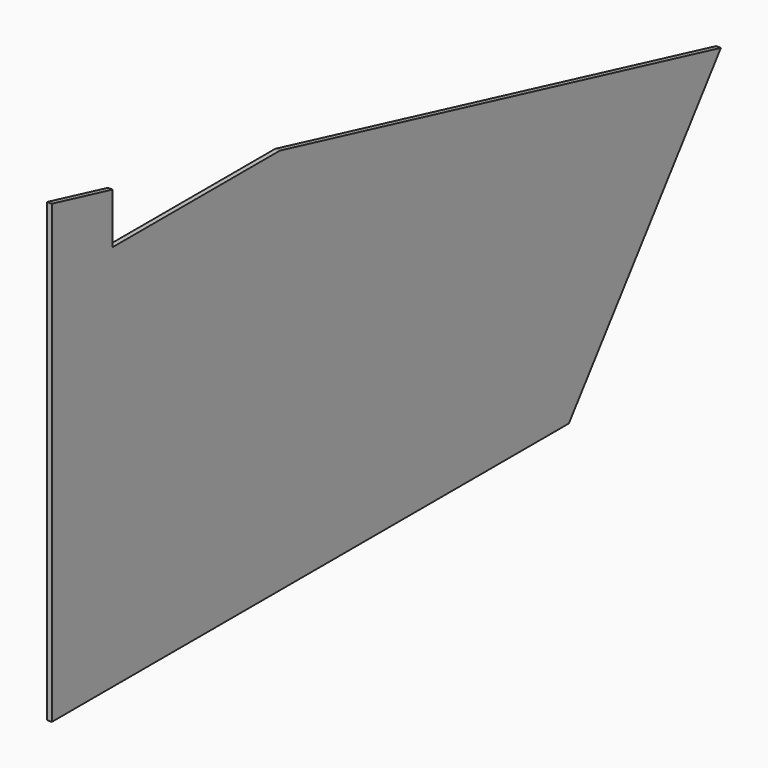
from build123d import *

# Parameters (mm, degrees)
F1_DEPTH = 4.7625
F3_DEPTH = 4.7635
F5_DEPTH = 4.7635


with BuildPart() as f1:
    # F0 (on Right) → F1 (new body)
    with BuildSketch(Plane.YZ):
        Polygon((0, 457.2), (0, 0), (838.2, 0), (838.2, 254), align=None)
    extrude(amount=F1_DEPTH)

    # F2 (on face) → F3 (cut, through all)
    with BuildSketch(Plane(origin=(0, 0, 0), x_dir=(0, -1, 0), z_dir=(-1, 0, 0))):
        Polygon((-76.2, 387.927273), (-76.2, 438.727273), (-285.75, 387.927273), align=None)
    extrude(amount=-F3_DEPTH, mode=Mode.SUBTRACT)

    # F4 (on face) → F5 (cut, through all)
    with BuildSketch(Plane.YZ.offset(4.7625)):
        Polygon((838.2, 0), (838.2, 254), (647.7, 0), align=None)
    extrude(amount=-F5_DEPTH, mode=Mode.SUBTRACT)


solid = f1.part
